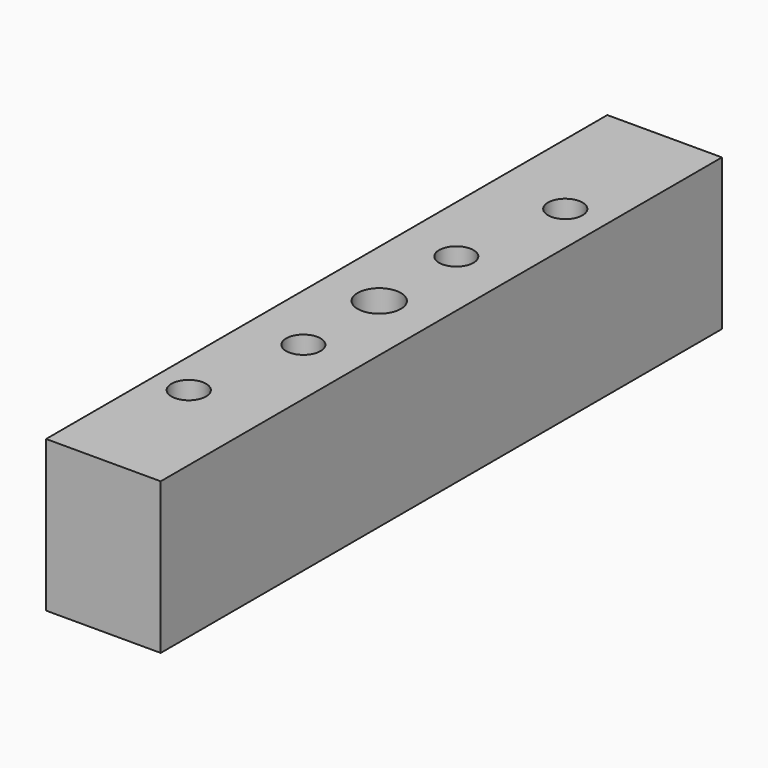
from build123d import *

# Parameters (mm, degrees)
F0_W     = 21.0566
F0_H     = 27.7622
F1_DEPTH = 128.8796
F2_R     = 3.1623
F2_R_2   = 3.175
F3_DEPTH = 27.7632


with BuildPart() as f1:
    # F0 (on Front) → F1 (new body)
    with BuildSketch(Plane.XZ):
        with Locations((10.5283, 13.8811)):
            Rectangle(F0_W, F0_H)
    extrude(amount=-F1_DEPTH)

    # F2 (on face) → F3 (cut, through all)
    with BuildSketch(Plane.XY.offset(27.7622)):
        with BuildLine():
            Line((10.5283, 63.3476), (14.5034, 63.3476))
            ThreePointArc((14.5034, 63.3476), (10.5283, 67.3227), (6.5532, 63.3476))
            Line((6.5532, 63.3476), (10.5283, 63.3476))
        make_face()
        with BuildLine():
            ThreePointArc((6.5532, 63.3476), (10.5283, 59.3725), (14.5034, 63.3476))
            Line((14.5034, 63.3476), (10.5283, 63.3476))
            Line((10.5283, 63.3476), (6.5532, 63.3476))
        make_face()
        with Locations((10.5283, 45.9232)):
            Circle(F2_R)
        with Locations((10.5283, 81.0387)):
            Circle(F2_R)
        with Locations((6.5024, 24.638)):
            Circle(F2_R_2)
        with Locations((13.5128, 102.3366)):
            Circle(F2_R_2)
    extrude(amount=-F3_DEPTH, mode=Mode.SUBTRACT)


solid = f1.part
